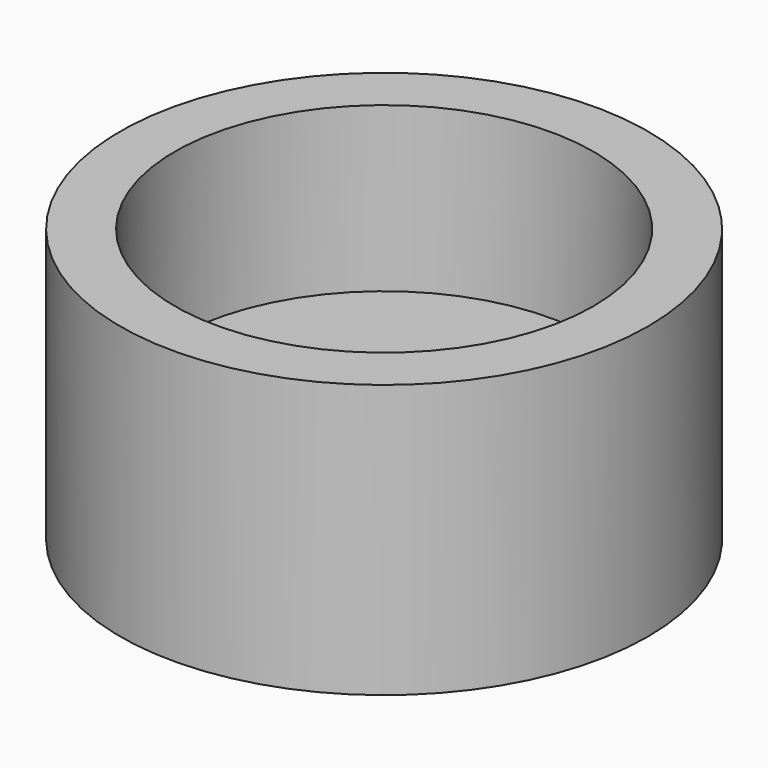
from build123d import *

# Parameters (mm, degrees)
SKETCH_R     = 14.5
SKETCH_R_2   = 11.5
PAD_DEPTH    = 15
SKETCH001_R  = 14.5
PAD001_DEPTH = 6


with BuildPart() as part:
    # Sketch → Pad (new body)
    with BuildSketch(Plane.XY):
        Circle(SKETCH_R)
        Circle(SKETCH_R_2, mode=Mode.SUBTRACT)
    extrude(amount=PAD_DEPTH)

    # Sketch001 → Pad001 (join)
    with BuildSketch(Plane.XY):
        Circle(SKETCH001_R)
    extrude(amount=PAD001_DEPTH)


solid = part.part
